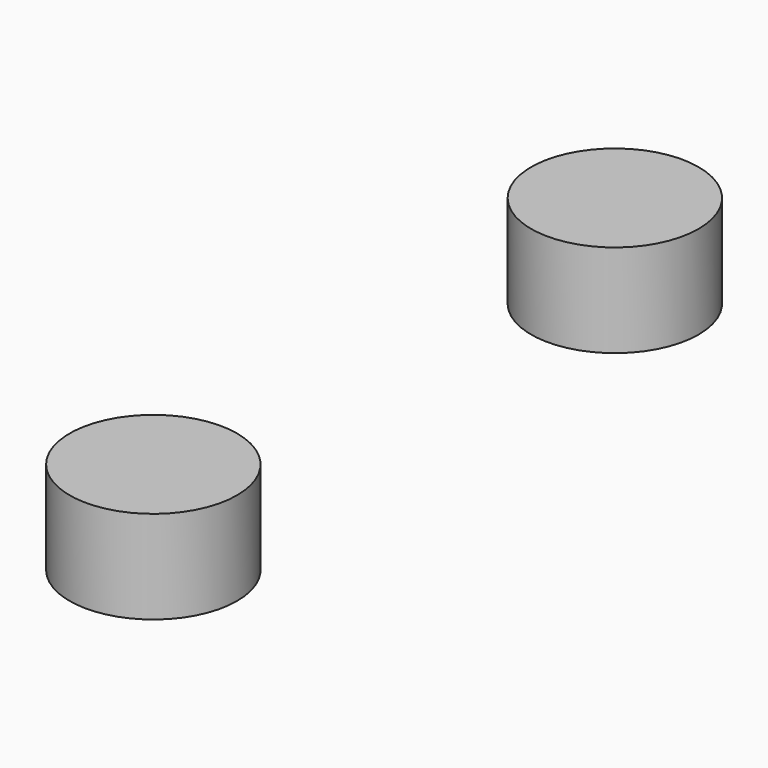
from build123d import *

# Parameters (mm, degrees)
CYLINDER019_R     = 4.5
CYLINDER019_DEPTH = 5
CYLINDER020_R     = 4.5
CYLINDER020_DEPTH = 5


with BuildPart() as cylinder019:
    # Cylinder019 → Cylinder019 (new body)
    with BuildSketch(Plane(origin=(98, 4.5, 22), x_dir=(1, 0, 0), z_dir=(0, 0, 1))):
        Circle(CYLINDER019_R)
    extrude(amount=CYLINDER019_DEPTH)


with BuildPart() as fusion004002002004005005002:
    # Cylinder020 → Cylinder020 (new body)
    with BuildSketch(Plane(origin=(98, 35.5, 22), x_dir=(1, 0, 0), z_dir=(0, 0, 1))):
        Circle(CYLINDER020_R)
    extrude(amount=CYLINDER020_DEPTH)

    # Fusion004002002004005005002: union Cylinder019
    add(cylinder019.part)


solid = fusion004002002004005005002.part
